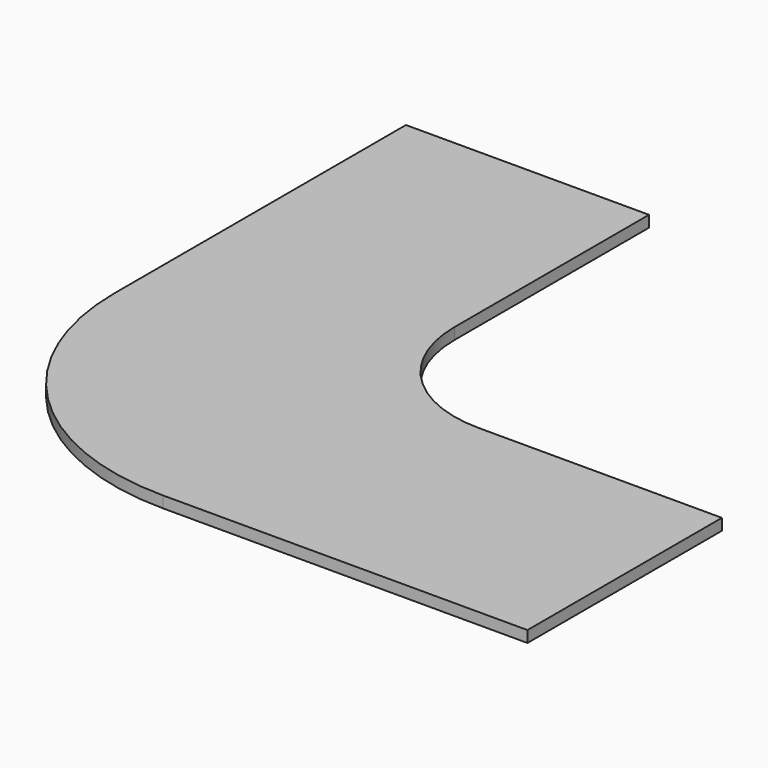
from build123d import *

# Parameters (mm, degrees)
F1_DEPTH = 28.575


with BuildPart() as f1:
    # F0 (on Top) → F1 (new body)
    with BuildSketch(Plane.XY):
        with BuildLine():
            Line((304.8, 152.4), (304.8, 762))
            Line((304.8, 762), (-304.8, 762))
            Line((-304.8, 762), (-304.8, -152.4))
            ThreePointArc((-304.8, -152.4), (-126.252294, -583.452294), (304.8, -762))
            Line((304.8, -762), (304.8, -152.4))
            Line((304.8, -152.4), (304.8, 152.4))
        make_face()
        Polygon((609.6, -152.4), (304.8, -152.4), (304.8, -762), (1219.2, -762), (1219.2, -152.4), align=None)
        with BuildLine():
            ThreePointArc((609.6, -152.4), (394.073853, -63.126147), (304.8, 152.4))
            Line((304.8, 152.4), (304.8, -152.4))
            Line((304.8, -152.4), (609.6, -152.4))
        make_face()
    extrude(amount=F1_DEPTH)


solid = f1.part
